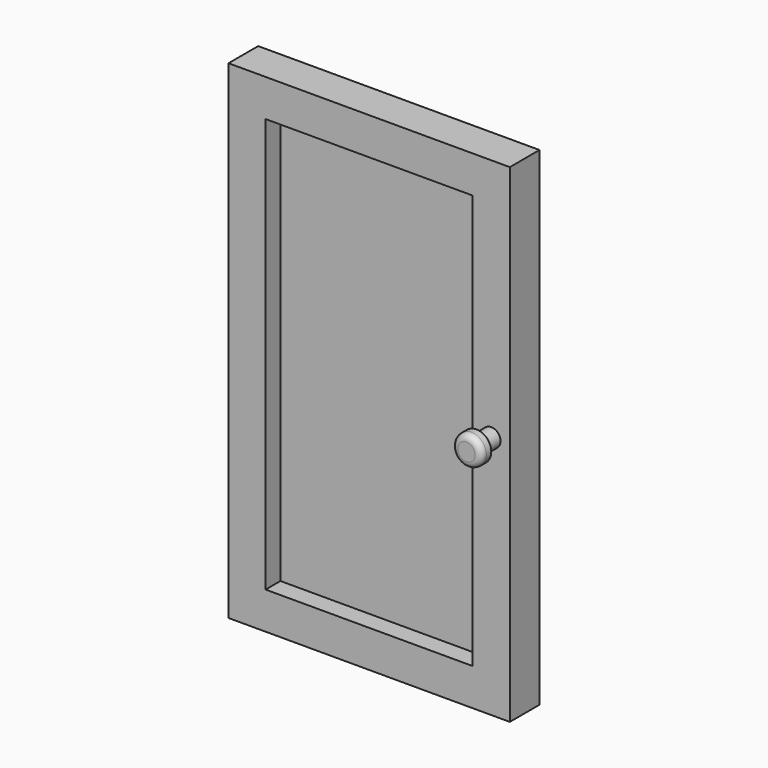
from build123d import *

# Parameters (mm, degrees)
F0_W     = 288.925
F0_H     = 501.65
F1_DEPTH = 19.05
F2_W     = 288.925
F2_H     = 501.65
F2_W_2   = 212.725
F2_H_2   = 425.45
F3_DEPTH = 19.05


with BuildPart() as f1:
    # F0 (on Front) → F1 (new body)
    with BuildSketch(Plane.XZ):
        with Locations((144.4625, 0)):
            Rectangle(F0_W, F0_H)
    extrude(amount=F1_DEPTH)

    # F2 (on face) → F3 (join)
    with BuildSketch(Plane.XZ.offset(19.05)):
        with Locations((144.4625, 0)):
            Rectangle(F2_W, F2_H)
        with Locations((144.4625, 0)):
            Rectangle(F2_W_2, F2_H_2, mode=Mode.SUBTRACT)
    extrude(amount=F3_DEPTH)

    # F4 (on Top) → F5 (revolve)
    with BuildSketch(Plane.XY):
        with BuildLine():
            Line((279.4, -57.15), (279.4, 0))
            Line((279.4, 0), (269.875, 0))
            Line((269.875, 0), (269.875, -69.85))
            Line((269.875, -69.85), (278.765, -69.85))
            ThreePointArc((278.765, -69.85), (283.255128, -67.990128), (285.115, -63.5))
            Line((285.115, -63.5), (285.115, -57.15))
            Line((285.115, -57.15), (279.4, -57.15))
        make_face()
    revolve(axis=Axis((269.875, -127, 0), (0, -1, 0)))


solid = f1.part
